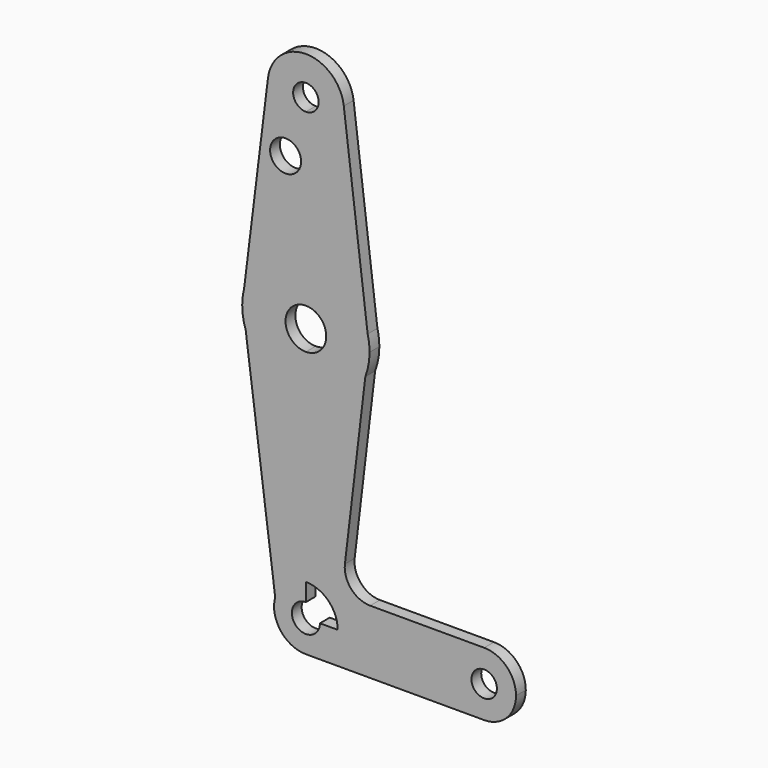
from build123d import *

# Parameters (mm, degrees)
F0_R     = 3.862839
F1_DEPTH = 3.048


with BuildPart() as f1:
    # F0 (on Front) → F1 (new body)
    with BuildSketch(Plane.XZ):
        with BuildLine():
            ThreePointArc((3.5001, 0), (-2.474944, -2.474944), (0, 3.5001))
            Line((0, 3.5001), (0, 7.9375))
            ThreePointArc((0, 7.9375), (-4.81555, 6.309864), (-7.65618, 2.094471))
            ThreePointArc((-7.65618, 2.094471), (-6.309864, -4.81555), (0, -7.9375))
            ThreePointArc((0, -7.9375), (5.61266, -5.61266), (7.9375, 0))
            Line((7.9375, 0), (3.5001, 0))
        make_face()
        with BuildLine():
            ThreePointArc((-7.65618, 2.094471), (-4.81555, 6.309864), (0, 7.9375))
            Line((0, 7.9375), (0, 47.625))
            ThreePointArc((0, 47.625), (-9.2188, 50.576016), (-15.01022, 58.331932))
            Line((-15.01022, 58.331932), (-7.65618, 2.094471))
        make_face()
        with BuildLine():
            Line((0, 47.625), (0, 7.9375))
            ThreePointArc((0, 7.9375), (5.61266, 5.61266), (7.9375, 0))
            Line((7.9375, 0), (36.5125, 0))
            ThreePointArc((36.5125, 0), (38.83734, 5.61266), (44.45, 7.9375))
            Line((44.45, 7.9375), (16.033496, 7.9375))
            ThreePointArc((16.033496, 7.9375), (11.285347, 10.071153), (9.728033, 15.038261))
            Line((9.728033, 15.038261), (14.820847, 57.81158))
            ThreePointArc((14.820847, 57.81158), (8.991995, 50.4172), (0, 47.625))
        make_face()
        with BuildLine():
            Line((36.5125, 0), (7.9375, 0))
            ThreePointArc((7.9375, 0), (5.61266, -5.61266), (0, -7.9375))
            Line((0, -7.9375), (44.45, -7.9375))
            ThreePointArc((44.45, -7.9375), (38.83734, -5.61266), (36.5125, 0))
        make_face()
        with BuildLine():
            ThreePointArc((-15.01022, 58.331932), (-9.2188, 50.576016), (0, 47.625))
            Line((0, 47.625), (0, 58.429423))
            ThreePointArc((0, 58.429423), (-5.070577, 63.5), (0, 68.570577))
            Line((0, 68.570577), (0, 79.375))
            ThreePointArc((0, 79.375), (-9.763897, 76.017266), (-15.397454, 67.364457))
            Line((-15.397454, 67.364457), (-15.875, 63.5))
            ThreePointArc((-15.875, 63.5), (-15.657312, 60.88004), (-15.01022, 58.331932))
        make_face()
        with BuildLine():
            Line((0, 58.429423), (0, 47.625))
            ThreePointArc((0, 47.625), (8.991995, 50.4172), (14.820847, 57.81158))
            ThreePointArc((14.820847, 57.81158), (15.609237, 60.607364), (15.875, 63.5))
            Line((15.875, 63.5), (15.397454, 67.364457))
            ThreePointArc((15.397454, 67.364457), (9.763897, 76.017266), (0, 79.375))
            Line((0, 79.375), (0, 68.570577))
            ThreePointArc((0, 68.570577), (3.585439, 67.085439), (5.070577, 63.5))
            ThreePointArc((5.070577, 63.5), (3.585439, 59.914561), (0, 58.429423))
        make_face()
        with BuildLine():
            ThreePointArc((47.625, 0), (44.45, 3.175), (41.275, 0))
            ThreePointArc((41.275, 0), (44.45, -3.175), (47.625, 0))
        make_face()
        with BuildLine():
            ThreePointArc((44.45, 7.9375), (38.83734, 5.61266), (36.5125, 0))
            ThreePointArc((36.5125, 0), (38.83734, -5.61266), (44.45, -7.9375))
            ThreePointArc((44.45, -7.9375), (50.06266, -5.61266), (52.3875, 0))
            ThreePointArc((52.3875, 0), (50.06266, 5.61266), (44.45, 7.9375))
        make_face()
        with BuildLine():
            ThreePointArc((47.625, 0), (44.45, -3.175), (41.275, 0))
            ThreePointArc((41.275, 0), (44.45, 3.175), (47.625, 0))
        make_face(mode=Mode.SUBTRACT)
        with BuildLine():
            ThreePointArc((-15.397454, 67.364457), (-15.755161, 65.446925), (-15.875, 63.5))
            Line((-15.875, 63.5), (-15.397454, 67.364457))
        make_face()
        with BuildLine():
            Line((15.397454, 67.364457), (15.875, 63.5))
            ThreePointArc((15.875, 63.5), (15.755161, 65.446925), (15.397454, 67.364457))
        make_face()
        with BuildLine():
            ThreePointArc((-15.397454, 67.364457), (-9.763897, 76.017266), (0, 79.375))
            Line((0, 79.375), (0, 104.775))
            ThreePointArc((0, 104.775), (-7.136256, 107.991318), (-9.453097, 115.468155))
            Line((-9.453097, 115.468155), (-15.397454, 67.364457))
        make_face()
        with Locations((-5.056424, 99.800363)):
            Circle(F0_R, mode=Mode.SUBTRACT)
        with BuildLine():
            Line((0, 104.775), (0, 79.375))
            ThreePointArc((0, 79.375), (9.763897, 76.017266), (15.397454, 67.364457))
            Line((15.397454, 67.364457), (9.453097, 115.468155))
            ThreePointArc((9.453097, 115.468155), (9.507007, 114.885183), (9.525, 114.3))
            ThreePointArc((9.525, 114.3), (6.735192, 107.564808), (0, 104.775))
        make_face()
        with BuildLine():
            ThreePointArc((3.175, 114.3), (-2.245064, 116.545064), (0, 111.125))
            ThreePointArc((0, 111.125), (2.245064, 112.054936), (3.175, 114.3))
        make_face()
        with BuildLine():
            ThreePointArc((-9.453097, 115.468155), (-7.136256, 107.991318), (0, 104.775))
            ThreePointArc((0, 104.775), (6.735192, 107.564808), (9.525, 114.3))
            ThreePointArc((9.525, 114.3), (9.507007, 114.885183), (9.453097, 115.468155))
            ThreePointArc((9.453097, 115.468155), (0, 123.825), (-9.453097, 115.468155))
        make_face()
        with BuildLine():
            ThreePointArc((3.175, 114.3), (2.245064, 112.054936), (0, 111.125))
            ThreePointArc((0, 111.125), (-2.245064, 116.545064), (3.175, 114.3))
        make_face(mode=Mode.SUBTRACT)
    extrude(amount=F1_DEPTH)


solid = f1.part
